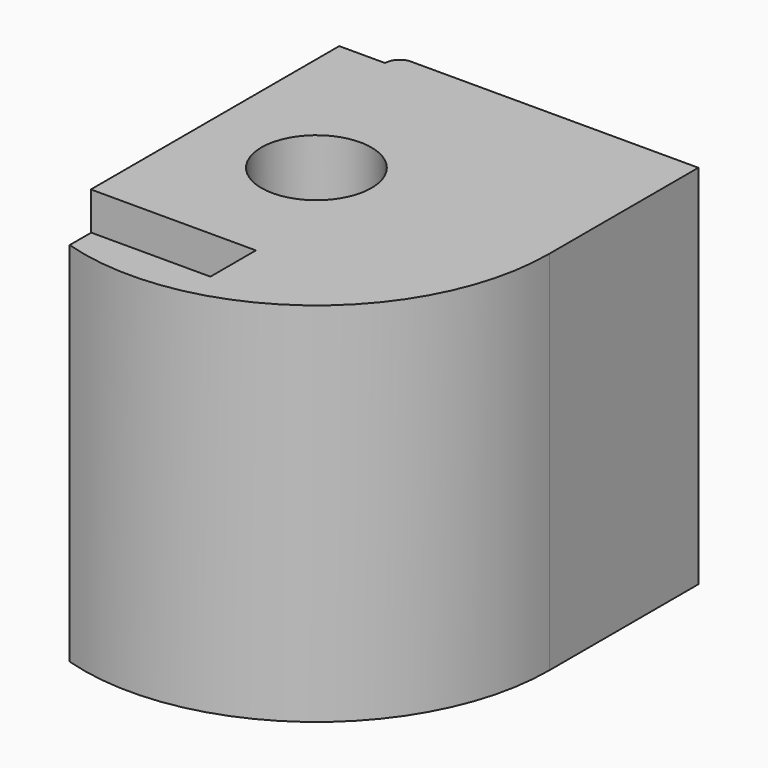
from build123d import *

# Parameters (mm, degrees)
SKETCH016_R  = 3
PAD017_DEPTH = 20
SKETCH020_W  = 2.5
SKETCH020_H  = 16.93
PAD021_DEPTH = 18


with BuildPart() as obj1:
    # Sketch016 → Pad017 (new body)
    with BuildSketch(Plane.XY):
        with BuildLine():
            ThreePointArc((-121.92, -35.56), (-116.758725, -45.780451), (-105.46998, -47.693728))
            Line((-105.46998, -46.223728), (-105.46998, -47.693728))
            Line((-111.96998, -46.223728), (-105.46998, -46.223728))
            Line((-111.96998, -43.123728), (-111.96998, -46.223728))
            Line((-105.46998, -43.123728), (-111.96998, -43.123728))
            Line((-105.46998, -31.693728), (-105.46998, -43.123728))
            Line((-105.46998, -31.693728), (-105.46998, -26.193728))
            ThreePointArc((-105.46998, -26.193728), (-105.669987, -25.66457), (-106.17, -25.4))
            Line((-106.17, -25.4), (-121.92, -25.4))
            Line((-121.92, -25.4), (-121.92, -35.56))
        make_face()
        with Locations((-109.22, -35.56)):
            Circle(SKETCH016_R, mode=Mode.SUBTRACT)
    extrude(amount=PAD017_DEPTH)

    # Sketch020 (on Face13 of Pad017) → Pad021 (join)
    with BuildSketch(Plane.XY.offset(20)):
        with Locations((-104.21998, -34.658728)):
            Rectangle(SKETCH020_W, SKETCH020_H)
    extrude(amount=-PAD021_DEPTH)


with BuildPart() as obj1_1:
    # Body012 placement: moved
    add(obj1.part.moved(Location((0, 19, 0))))


with BuildPart() as obj1_mirrored:
    # mirror: instance of obj1
    add(obj1_1.part.mirror(Plane(origin=(0, 0, 0), x_dir=(0, -1, 0), z_dir=(1, 0, 0))))


solid = obj1_mirrored.part
